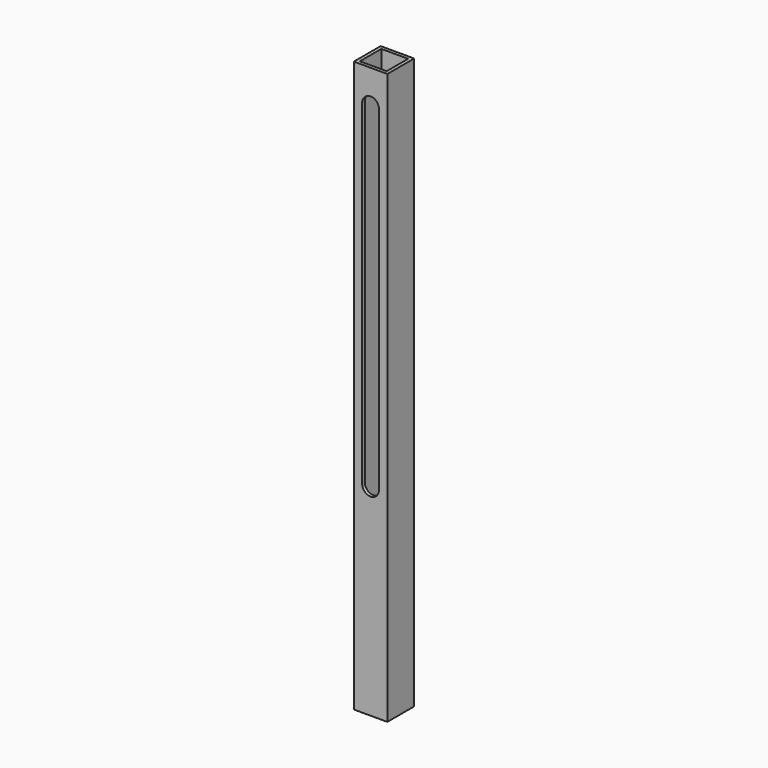
from build123d import *

# Parameters (mm, degrees)
F0_W     = 25.4
F0_H     = 431.8
F1_DEPTH = 25.4
F2_T     = -2.54
F4_DEPTH = 6.35
F5_R     = 3.2639
F6_DEPTH = 2.54


with BuildPart() as f1:
    # F0 (on Front) → F1 (new body)
    with BuildSketch(Plane.XZ):
        with Locations((12.7, -215.9)):
            Rectangle(F0_W, F0_H)
    extrude(amount=F1_DEPTH)

    # F2
    f2_openings = [f1.faces().sort_by_distance(p)[0] for p in [
        (12.7, -12.7, 0),
        (12.7, -12.7, -431.8),
    ]]
    offset(amount=F2_T, openings=f2_openings)

    # F3 (on face) → F4 (cut)
    with BuildSketch(Plane.XZ.offset(25.4)):
        with BuildLine():
            Line((19.05, -279.4), (19.05, -25.4))
            ThreePointArc((19.05, -25.4), (12.7, -19.05), (6.35, -25.4))
            Line((6.35, -25.4), (6.35, -279.4))
            ThreePointArc((6.35, -279.4), (12.7, -285.75), (19.05, -279.4))
        make_face()
    extrude(amount=-F4_DEPTH, mode=Mode.SUBTRACT)

    # F5 (on face) → F6 (cut)
    with BuildSketch(Plane(origin=(0, 0, 0), x_dir=(-1, 0, 0), z_dir=(0, 1, 0))):
        with Locations((-12.7, -25.4)):
            Circle(F5_R)
    extrude(amount=-F6_DEPTH, mode=Mode.SUBTRACT)


solid = f1.part
